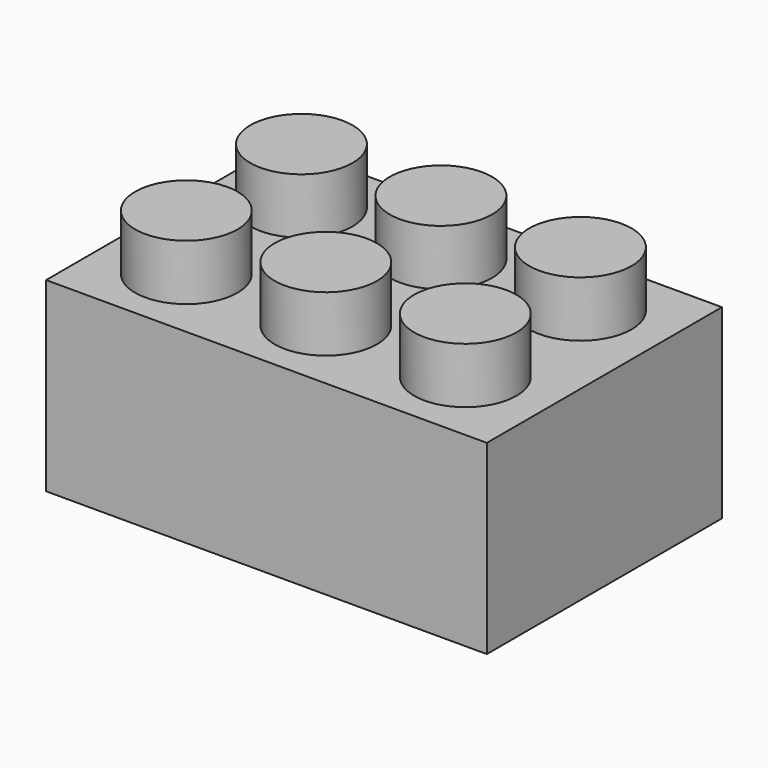
from build123d import *

# Parameters (mm, degrees)
F0_W     = 23.7
F0_H     = 15.8
F1_DEPTH = 10
F2_R     = 2.75
F3_DEPTH = 3
F4_W     = 20.786194
F4_H     = 12.840617
F5_DEPTH = 8
F6_R     = 3.802905
F6_R_2   = 2.49672
F6_R_3   = 2.479142
F7_DEPTH = 8


with BuildPart() as f1:
    # F0 (on Top) → F1 (new body)
    with BuildSketch(Plane.XY):
        with Locations((11.85, 7.9)):
            Rectangle(F0_W, F0_H)
    extrude(amount=F1_DEPTH)

    # F2 (on face) → F3 (join)
    with BuildSketch(Plane.XY.offset(10)):
        with Locations((4.25, 11.85)):
            Circle(F2_R)
        with Locations((11.75, 11.85)):
            Circle(F2_R)
        with Locations((19.25, 11.85)):
            Circle(F2_R)
        with Locations((4.25, 4.115675)):
            Circle(F2_R)
        with Locations((11.75, 4.115675)):
            Circle(F2_R)
        with Locations((19.25, 4.115675)):
            Circle(F2_R)
    extrude(amount=F3_DEPTH)

    # F4 (on face) → F5 (cut)
    with BuildSketch(Plane(origin=(0, 0, 0), x_dir=(1, 0, 0), z_dir=(0, 0, -1))):
        with Locations((11.888078, -7.852494)):
            Rectangle(F4_W, F4_H)
    extrude(amount=-F5_DEPTH, mode=Mode.SUBTRACT)

    # F6 (on face) → F7 (join)
    with BuildSketch(Plane(origin=(0, 0, 8), x_dir=(1, 0, 0), z_dir=(0, 0, -1))):
        with Locations((16.33504, -7.714347)):
            Circle(F6_R)
        with Locations((16.33504, -7.714347)):
            Circle(F6_R_2, mode=Mode.SUBTRACT)
        with Locations((6.87801, -7.714347)):
            Circle(F6_R)
        with Locations((6.87801, -7.714347)):
            Circle(F6_R_3, mode=Mode.SUBTRACT)
    extrude(amount=F7_DEPTH)


solid = f1.part
